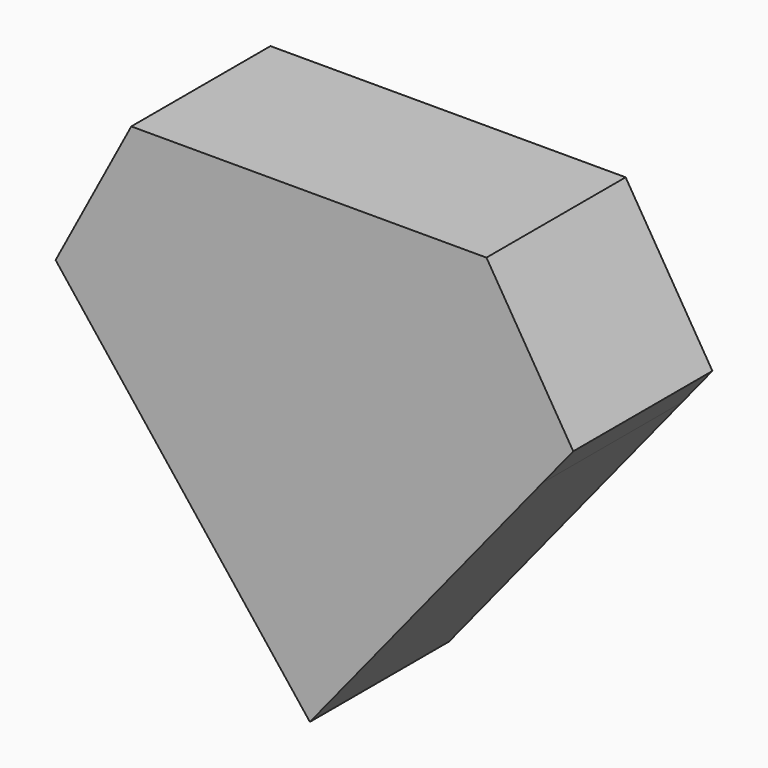
from build123d import *

# Parameters (mm, degrees)
F1_DEPTH = 25.4


with BuildPart() as f1:
    # F0 (on Front) → F1 (new body)
    with BuildSketch(Plane.XZ):
        Polygon((55.0420084709, 0), (75.5814760923, 0), (62.9108995199, 20.7738727331), align=None)
        Polygon((71.1048590126, -5.5057224405), (75.5814760923, 0), (55.0420084709, 0), (37.1277481318, -47.2936481237), align=None)
        Polygon((55.0420084709, 0), (62.9108995199, 20.7738727331), (34.9177569151, 20.7738727331), align=None)
        Polygon((19.0087493065, 0), (55.0420084709, 0), (34.9177569151, 20.7738727331), align=None)
        Polygon((37.1277481318, -47.2936481237), (55.0420084709, 0), (19.0087493065, 0), align=None)
        Polygon((19.0087493065, 0), (34.9177569151, 20.7738727331), (16.6485458612, 20.7738727331), (11.049926281, 20.7738727331), align=None)
        Polygon((0, 0), (37.1277481318, -47.2936481237), (19.0087493065, 0), align=None)
        Polygon((0, 0), (19.0087493065, 0), (11.049926281, 20.7738727331), align=None)
    extrude(amount=F1_DEPTH)


solid = f1.part
